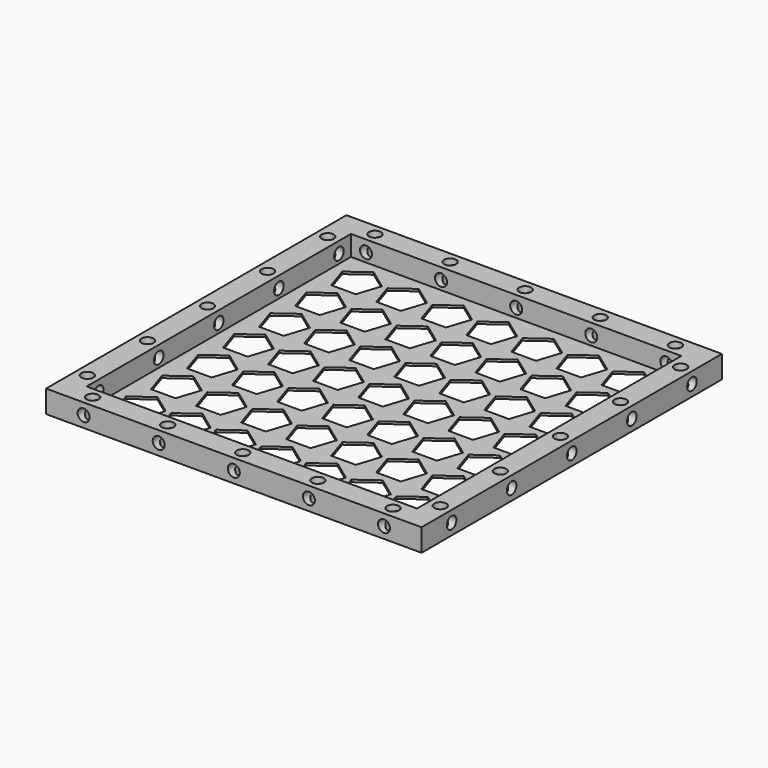
from build123d import *

# Parameters (mm, degrees)
F0_W      = 100
F0_H      = 100
F1_DEPTH  = 0.6
F2_W      = 88
F2_H      = 6
F3_DEPTH  = 6
F5_DEPTH  = 1.2
F6_R      = 1.6
F7_DEPTH  = 50
F8_R      = 1.6
F9_DEPTH  = 50
F10_R     = 1.6
F11_DEPTH = 7


with BuildPart() as f1:
    # F0 (on Top) → F1 (new body)
    with BuildSketch(Plane.XY):
        Rectangle(F0_W, F0_H)
    extrude(amount=F1_DEPTH)

    # F2 (on Top) → F3 (join)
    with BuildSketch(Plane.XY):
        Polygon((-44, 50), (-50, 50), (-50, -50), (-44, -50), (-44, -44), (-44, 44), align=None)
        with Locations((0, 47)):
            Rectangle(F2_W, F2_H)
        Polygon((50, 50), (44, 50), (44, 44), (44, -44), (44, -50), (50, -50), align=None)
        with Locations((0, -47)):
            Rectangle(F2_W, F2_H)
    extrude(amount=F3_DEPTH)

    # F4 (on Top) → F5 (cut)
    with BuildSketch(Plane.XY):
        Polygon((-32.730559, 31.5), (-30.709933, 37.718847), (-36, 41.562306), (-41.290067, 37.718847), (-39.269441, 31.5), align=None)
        Polygon((-30.709933, 25.718847), (-36, 29.562306), (-41.290067, 25.718847), (-39.269441, 19.5), (-32.730559, 19.5), align=None)
        Polygon((-30.709933, 13.718847), (-36, 17.562306), (-41.290067, 13.718847), (-39.269441, 7.5), (-32.730559, 7.5), align=None)
        Polygon((-30.709933, 1.718847), (-36, 5.562306), (-41.290067, 1.718847), (-39.269441, -4.5), (-32.730559, -4.5), align=None)
        Polygon((-30.709933, -10.281153), (-36, -6.437694), (-41.290067, -10.281153), (-39.269441, -16.5), (-32.730559, -16.5), align=None)
        Polygon((-30.709933, -22.281153), (-36, -18.437694), (-41.290067, -22.281153), (-39.269441, -28.5), (-32.730559, -28.5), align=None)
        Polygon((-18.709933, 37.718847), (-24, 41.562306), (-29.290067, 37.718847), (-27.269441, 31.5), (-20.730559, 31.5), align=None)
        Polygon((-18.709933, 25.718847), (-24, 29.562306), (-29.290067, 25.718847), (-27.269441, 19.5), (-20.730559, 19.5), align=None)
        Polygon((-18.709933, 13.718847), (-24, 17.562306), (-29.290067, 13.718847), (-27.269441, 7.5), (-20.730559, 7.5), align=None)
        Polygon((-18.709933, 1.718847), (-24, 5.562306), (-29.290067, 1.718847), (-27.269441, -4.5), (-20.730559, -4.5), align=None)
        Polygon((-18.709933, -10.281153), (-24, -6.437694), (-29.290067, -10.281153), (-27.269441, -16.5), (-20.730559, -16.5), align=None)
        Polygon((-18.709933, -22.281153), (-24, -18.437694), (-29.290067, -22.281153), (-27.269441, -28.5), (-20.730559, -28.5), align=None)
        Polygon((-6.709933, 37.718847), (-12, 41.562306), (-17.290067, 37.718847), (-15.269441, 31.5), (-8.730559, 31.5), align=None)
        Polygon((-6.709933, 25.718847), (-12, 29.562306), (-17.290067, 25.718847), (-15.269441, 19.5), (-8.730559, 19.5), align=None)
        Polygon((-6.709933, 13.718847), (-12, 17.562306), (-17.290067, 13.718847), (-15.269441, 7.5), (-8.730559, 7.5), align=None)
        Polygon((-6.709933, 1.718847), (-12, 5.562306), (-17.290067, 1.718847), (-15.269441, -4.5), (-8.730559, -4.5), align=None)
        Polygon((-6.709933, -10.281153), (-12, -6.437694), (-17.290067, -10.281153), (-15.269441, -16.5), (-8.730559, -16.5), align=None)
        Polygon((-6.709933, -22.281153), (-12, -18.437694), (-17.290067, -22.281153), (-15.269441, -28.5), (-8.730559, -28.5), align=None)
        Polygon((5.290067, 37.718847), (0, 41.562306), (-5.290067, 37.718847), (-3.269441, 31.5), (3.269441, 31.5), align=None)
        Polygon((5.290067, 25.718847), (0, 29.562306), (-5.290067, 25.718847), (-3.269441, 19.5), (3.269441, 19.5), align=None)
        Polygon((5.290067, 13.718847), (0, 17.562306), (-5.290067, 13.718847), (-3.269441, 7.5), (3.269441, 7.5), align=None)
        Polygon((5.290067, 1.718847), (0, 5.562306), (-5.290067, 1.718847), (-3.269441, -4.5), (3.269441, -4.5), align=None)
        Polygon((5.290067, -10.281153), (0, -6.437694), (-5.290067, -10.281153), (-3.269441, -16.5), (3.269441, -16.5), align=None)
        Polygon((5.290067, -22.281153), (0, -18.437694), (-5.290067, -22.281153), (-3.269441, -28.5), (3.269441, -28.5), align=None)
        Polygon((17.290067, 37.718847), (12, 41.562306), (6.709933, 37.718847), (8.730559, 31.5), (15.269441, 31.5), align=None)
        Polygon((17.290067, 25.718847), (12, 29.562306), (6.709933, 25.718847), (8.730559, 19.5), (15.269441, 19.5), align=None)
        Polygon((17.290067, 13.718847), (12, 17.562306), (6.709933, 13.718847), (8.730559, 7.5), (15.269441, 7.5), align=None)
        Polygon((17.290067, 1.718847), (12, 5.562306), (6.709933, 1.718847), (8.730559, -4.5), (15.269441, -4.5), align=None)
        Polygon((17.290067, -10.281153), (12, -6.437694), (6.709933, -10.281153), (8.730559, -16.5), (15.269441, -16.5), align=None)
        Polygon((17.290067, -22.281153), (12, -18.437694), (6.709933, -22.281153), (8.730559, -28.5), (15.269441, -28.5), align=None)
        Polygon((29.290067, 37.718847), (24, 41.562306), (18.709933, 37.718847), (20.730559, 31.5), (27.269441, 31.5), align=None)
        Polygon((29.290067, 25.718847), (24, 29.562306), (18.709933, 25.718847), (20.730559, 19.5), (27.269441, 19.5), align=None)
        Polygon((29.290067, 13.718847), (24, 17.562306), (18.709933, 13.718847), (20.730559, 7.5), (27.269441, 7.5), align=None)
        Polygon((29.290067, 1.718847), (24, 5.562306), (18.709933, 1.718847), (20.730559, -4.5), (27.269441, -4.5), align=None)
        Polygon((29.290067, -10.281153), (24, -6.437694), (18.709933, -10.281153), (20.730559, -16.5), (27.269441, -16.5), align=None)
        Polygon((29.290067, -22.281153), (24, -18.437694), (18.709933, -22.281153), (20.730559, -28.5), (27.269441, -28.5), align=None)
        Polygon((41.290067, 37.718847), (36, 41.562306), (30.709933, 37.718847), (32.730559, 31.5), (39.269441, 31.5), align=None)
        Polygon((41.290067, 25.718847), (36, 29.562306), (30.709933, 25.718847), (32.730559, 19.5), (39.269441, 19.5), align=None)
        Polygon((41.290067, 13.718847), (36, 17.562306), (30.709933, 13.718847), (32.730559, 7.5), (39.269441, 7.5), align=None)
        Polygon((41.290067, 1.718847), (36, 5.562306), (30.709933, 1.718847), (32.730559, -4.5), (39.269441, -4.5), align=None)
        Polygon((41.290067, -10.281153), (36, -6.437694), (30.709933, -10.281153), (32.730559, -16.5), (39.269441, -16.5), align=None)
        Polygon((41.290067, -22.281153), (36, -18.437694), (30.709933, -22.281153), (32.730559, -28.5), (39.269441, -28.5), align=None)
        Polygon((-30.709933, -34.281153), (-36, -30.437694), (-41.290067, -34.281153), (-39.269441, -40.5), (-32.730559, -40.5), align=None)
        Polygon((-18.709933, -34.281153), (-24, -30.437694), (-29.290067, -34.281153), (-27.269441, -40.5), (-20.730559, -40.5), align=None)
        Polygon((-6.709933, -34.281153), (-12, -30.437694), (-17.290067, -34.281153), (-15.269441, -40.5), (-8.730559, -40.5), align=None)
        Polygon((5.290067, -34.281153), (0, -30.437694), (-5.290067, -34.281153), (-3.269441, -40.5), (3.269441, -40.5), align=None)
        Polygon((17.290067, -34.281153), (12, -30.437694), (6.709933, -34.281153), (8.730559, -40.5), (15.269441, -40.5), align=None)
        Polygon((29.290067, -34.281153), (24, -30.437694), (18.709933, -34.281153), (20.730559, -40.5), (27.269441, -40.5), align=None)
        Polygon((41.290067, -34.281153), (36, -30.437694), (30.709933, -34.281153), (32.730559, -40.5), (39.269441, -40.5), align=None)
    extrude(amount=F5_DEPTH, mode=Mode.SUBTRACT)

    # F6 (on Right) → F7 (cut, symmetric)
    with BuildSketch(Plane.YZ):
        with Locations((-40, 3)):
            Circle(F6_R)
        with Locations((-20, 3)):
            Circle(F6_R)
        with Locations((0, 3)):
            Circle(F6_R)
        with Locations((20, 3)):
            Circle(F6_R)
        with Locations((40, 3)):
            Circle(F6_R)
    extrude(amount=F7_DEPTH, both=True, mode=Mode.SUBTRACT)

    # F8 (on Front) → F9 (cut, symmetric)
    with BuildSketch(Plane.XZ):
        with Locations((-40, 3)):
            Circle(F8_R)
        with Locations((-20, 3)):
            Circle(F8_R)
        with Locations((0, 3)):
            Circle(F8_R)
        with Locations((20, 3)):
            Circle(F8_R)
        with Locations((40, 3)):
            Circle(F8_R)
    extrude(amount=F9_DEPTH, both=True, mode=Mode.SUBTRACT)

    # F10 (on Top) → F11 (cut)
    with BuildSketch(Plane.XY):
        with Locations((-40, 47)):
            Circle(F10_R)
        with Locations((-20, 47)):
            Circle(F10_R)
        with Locations((0, 47)):
            Circle(F10_R)
        with Locations((20, 47)):
            Circle(F10_R)
        with Locations((40, 47)):
            Circle(F10_R)
        with Locations((-47, 40)):
            Circle(F10_R)
        with Locations((-47, 20)):
            Circle(F10_R)
        with Locations((-47, 0)):
            Circle(F10_R)
        with Locations((-47, -20)):
            Circle(F10_R)
        with Locations((-47, -40)):
            Circle(F10_R)
        with Locations((-40, -47)):
            Circle(F10_R)
        with Locations((-20, -47)):
            Circle(F10_R)
        with Locations((20, -47)):
            Circle(F10_R)
        with Locations((40, -47)):
            Circle(F10_R)
        with Locations((0, -47)):
            Circle(F10_R)
        with Locations((47, -20)):
            Circle(F10_R)
        with Locations((47, 0)):
            Circle(F10_R)
        with Locations((47, 40)):
            Circle(F10_R)
        with Locations((47, 20)):
            Circle(F10_R)
        with Locations((47, -40)):
            Circle(F10_R)
    extrude(amount=F11_DEPTH, mode=Mode.SUBTRACT)


solid = f1.part
